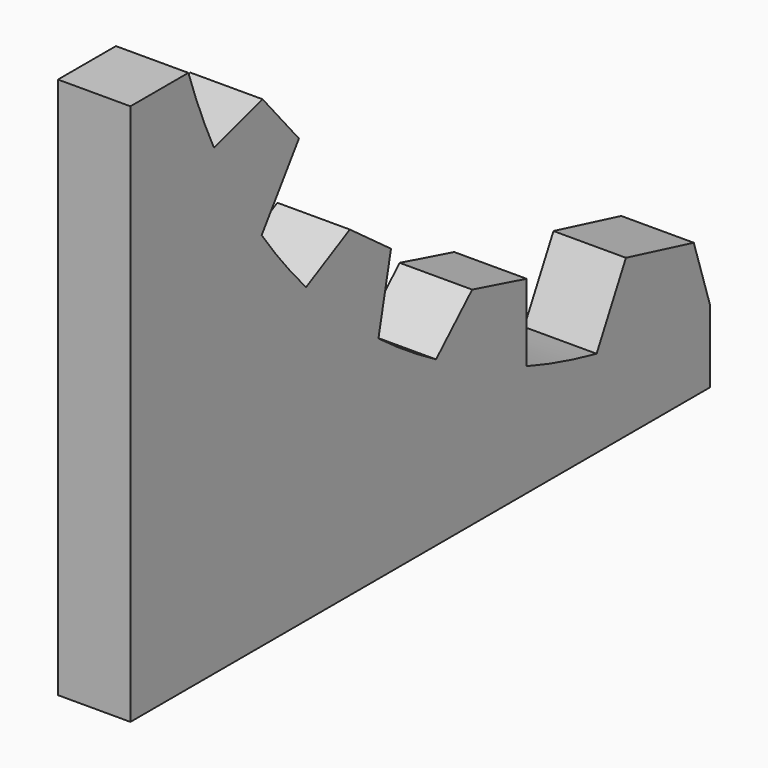
from build123d import *

# Parameters (mm, degrees)
F1_DEPTH = 25


with BuildPart() as f1:
    # F0 (on Right) → F1 (new body)
    with BuildSketch(Plane.YZ):
        with BuildLine():
            Line((-36.035504, 106.236686), (-36.035504, -80.763314))
            Line((-36.035504, -80.763314), (213.964496, -80.763314))
            Line((213.964496, -80.763314), (213.964496, -55.763314))
            Line((213.964496, -55.763314), (206.940986, -33.974228))
            Line((206.940986, -33.974228), (177.683763, -26.659922))
            Line((177.683763, -26.659922), (165.041714, -50.65876))
            ThreePointArc((165.041714, -50.65876), (149.817431, -46.919692), (134.873256, -42.183545))
            Line((134.873256, -42.183545), (134.873256, -15.630545))
            Line((134.873256, -15.630545), (111.362994, -9.36128))
            Line((111.362994, -9.36128), (95.788479, -24.225105))
            ThreePointArc((95.788479, -24.225105), (83.106224, -16.399421), (70.940202, -7.793098))
            Line((70.940202, -7.793098), (76.35881, 17.283693))
            Line((76.35881, 17.283693), (58.595493, 30.344954))
            Line((58.595493, 30.344954), (39.715554, 20.487944))
            ThreePointArc((39.715554, 20.487944), (29.767414, 31.970469), (20.574449, 44.066057))
            Line((20.574449, 44.066057), (36.652576, 66.916481))
            Line((36.652576, 66.916481), (20.979062, 85.202247))
            Line((20.979062, 85.202247), (0, 78.992389))
            ThreePointArc((0, 78.992389), (-5.940015, 92.443497), (-11.035504, 106.236686))
            Line((-11.035504, 106.236686), (-36.035504, 106.236686))
        make_face()
    extrude(amount=F1_DEPTH)


solid = f1.part
